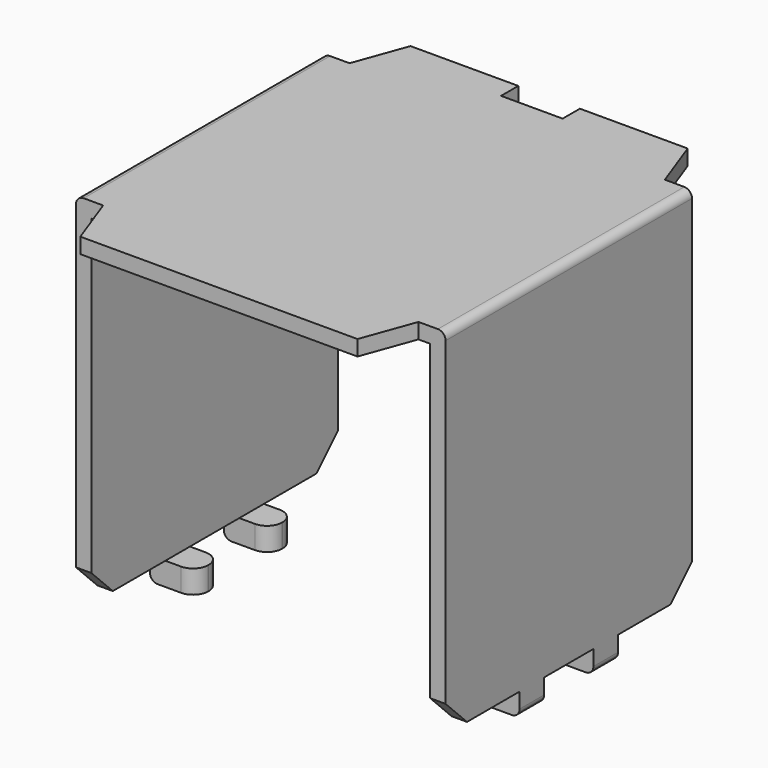
from build123d import *

# Parameters (mm, degrees)
PAD008_DEPTH               = 0.5
PAD009_DEPTH               = 0.5
PAD009_MIRRORED004_2_DEPTH = 0.5
SKETCH021_W                = 1.5
SKETCH021_H                = 1
PAD010_DEPTH               = 0.75
SKETCH021_MIRRORED006_2_W  = 1.5
SKETCH021_MIRRORED006_2_H  = 1
PAD010_MIRRORED006_2_DEPTH = 0.75
FILLET_R                   = 0.25
FILLET001_R                = 0.25
FILLET003_R                = 0.49


with BuildPart() as part:
    # Sketch018 → Pad008 (new body)
    with BuildSketch(Plane.XY.offset(13)):
        Polygon((-1, 6), (-1, 6.7), (-4.5, 6.7), (-5.118749, 5), (-5.5, 5), (-5.5, -5), (-5.118749, -5), (-4.5, -6.7), (4.5, -6.7), (5.118749, -5), (5.5, -5), (5.5, 5), (5.118749, 5), (4.5, 6.7), (1, 6.7), (1, 6), align=None)
    extrude(amount=-PAD008_DEPTH)

    # Sketch020 → Pad009 (join)
    with BuildSketch(Plane.YZ.offset(6)):
        Polygon((-5, 13), (-5, 2.368609), (-4.131391, 1.5), (-1, 1.5), (0, 1.5), (0, 13), align=None)
    pad009 = extrude(amount=-PAD009_DEPTH)

    # Sketch020 Mirrored004 2 → Pad009 Mirrored004 2 (add)
    with BuildSketch(Plane.YZ.offset(-6)):
        Polygon((-5, 13), (-5, 2.368609), (-4.131391, 1.5), (-1, 1.5), (0, 1.5), (0, 13), align=None)
    pad009_mirrored004_2 = extrude(amount=PAD009_MIRRORED004_2_DEPTH)

    # Mirrored005: Pad009, Pad009 Mirrored004 2 across XZ
    add(pad009.mirror(Plane.XZ))
    add(pad009_mirrored004_2.mirror(Plane.XZ))

    # Sketch021 → Pad010 (join)
    with BuildSketch(Plane.XY.offset(1.5)):
        with Locations((-5.25, 1.5)):
            Rectangle(SKETCH021_W, SKETCH021_H)
    pad010 = extrude(amount=-PAD010_DEPTH)

    # Sketch021 Mirrored006 2 → Pad010 Mirrored006 2 (add)
    with BuildSketch(Plane(origin=(0, 0, 1.5), x_dir=(-1, 0, 0), z_dir=(0, 0, -1))):
        with Locations((-5.25, 1.5)):
            Rectangle(SKETCH021_MIRRORED006_2_W, SKETCH021_MIRRORED006_2_H)
    pad010_mirrored006_2 = extrude(amount=PAD010_MIRRORED006_2_DEPTH)

    # Mirrored007: Pad010, Pad010 Mirrored006 2 across XZ
    add(pad010.mirror(Plane.XZ))
    add(pad010_mirrored006_2.mirror(Plane.XZ))

    # Fillet
    fillet_edges = [part.edges().sort_by_distance(p)[0] for p in [
        (-6, -1.5, 0.75),
        (-6, 1.5, 0.75),
        (6, 1.5, 0.75),
        (6, -1.5, 0.75),
    ]]
    fillet(fillet_edges, radius=FILLET_R)

    # Fillet001
    fillet001_edges = [part.edges().sort_by_distance(p)[0] for p in [
        (6, 0, 13),
        (-6, 0, 13),
    ]]
    fillet(fillet001_edges, radius=FILLET001_R)

    # Fillet003
    fillet003_edges = [part.edges().sort_by_distance(p)[0] for p in [
        (4.5, 2, 1.125),
        (4.5, 1, 1.125),
        (4.5, -1, 1.125),
        (4.5, -2, 1.125),
        (-4.5, -2, 1.125),
        (-4.5, -1, 1.125),
        (-4.5, 1, 1.125),
        (-4.5, 2, 1.125),
    ]]
    fillet(fillet003_edges, radius=FILLET003_R)


solid = part.part
